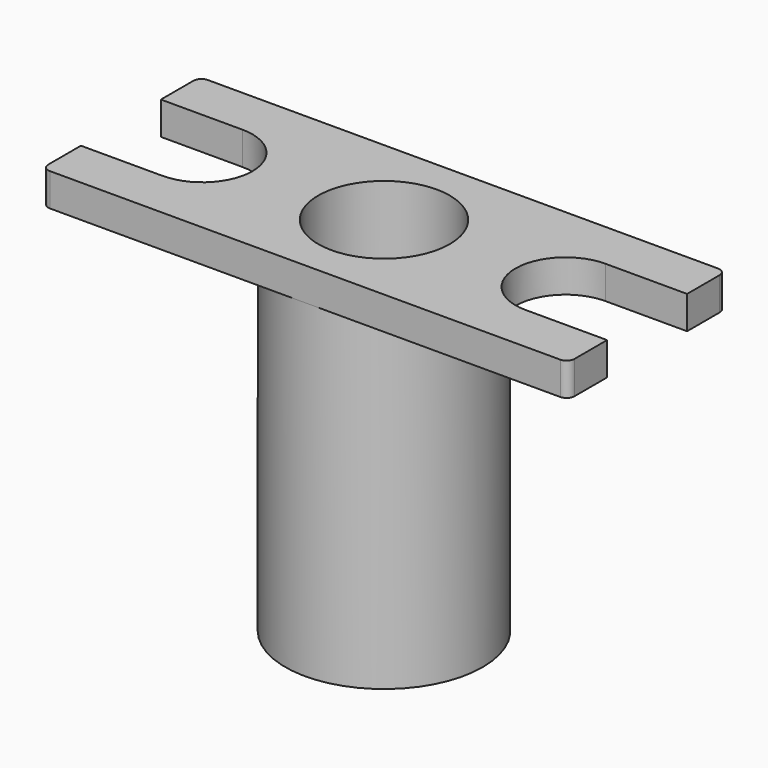
from build123d import *

# Parameters (mm, degrees)
F0_R      = 12.7
F1_DEPTH  = 6.35
F2_R      = 19.05
F3_DEPTH  = 63.5
F3_FACE_R = 12.7
F4_DEPTH  = 57.15
F5_R      = 4.7625
F6_DEPTH  = 69.851


with BuildPart() as f1:
    # F0 (on Top) → F1 (new body)
    with BuildSketch(Plane.XY):
        with BuildLine():
            ThreePointArc((50.8, 17.526), (50.353631, 18.603631), (49.276, 19.05))
            Line((49.276, 19.05), (-49.276, 19.05))
            ThreePointArc((-49.276, 19.05), (-50.353631, 18.603631), (-50.8, 17.526))
            Line((-50.8, 17.526), (-50.8, 9.652))
            Line((-50.8, 9.652), (-35.052, 9.652))
            ThreePointArc((-35.052, 9.652), (-25.4, 0), (-35.052, -9.652))
            Line((-35.052, -9.652), (-50.8, -9.652))
            Line((-50.8, -9.652), (-50.8, -17.526))
            ThreePointArc((-50.8, -17.526), (-50.353631, -18.603631), (-49.276, -19.05))
            Line((-49.276, -19.05), (49.276, -19.05))
            ThreePointArc((49.276, -19.05), (50.353631, -18.603631), (50.8, -17.526))
            Line((50.8, -17.526), (50.8, -9.652))
            Line((50.8, -9.652), (35.052, -9.652))
            ThreePointArc((35.052, -9.652), (25.4, 0), (35.052, 9.652))
            Line((35.052, 9.652), (50.8, 9.652))
            Line((50.8, 9.652), (50.8, 17.526))
        make_face()
        Circle(F0_R, mode=Mode.SUBTRACT)
    extrude(amount=F1_DEPTH)

    # F2 (on face) → F3 (join)
    with BuildSketch(Plane(origin=(0, 0, 0), x_dir=(1, 0, 0), z_dir=(0, 0, -1))):
        Circle(F2_R)
    extrude(amount=F3_DEPTH)

    # F3_face (on face) → F4 (cut)
    with BuildSketch(Plane.XY):
        Circle(F3_FACE_R)
    extrude(amount=-F4_DEPTH, mode=Mode.SUBTRACT)

    # F5 (on face) → F6 (cut, through all)
    with BuildSketch(Plane(origin=(0, 0, -63.5), x_dir=(1, 0, 0), z_dir=(0, 0, -1))):
        Circle(F5_R)
    extrude(amount=-F6_DEPTH, mode=Mode.SUBTRACT)


solid = f1.part
